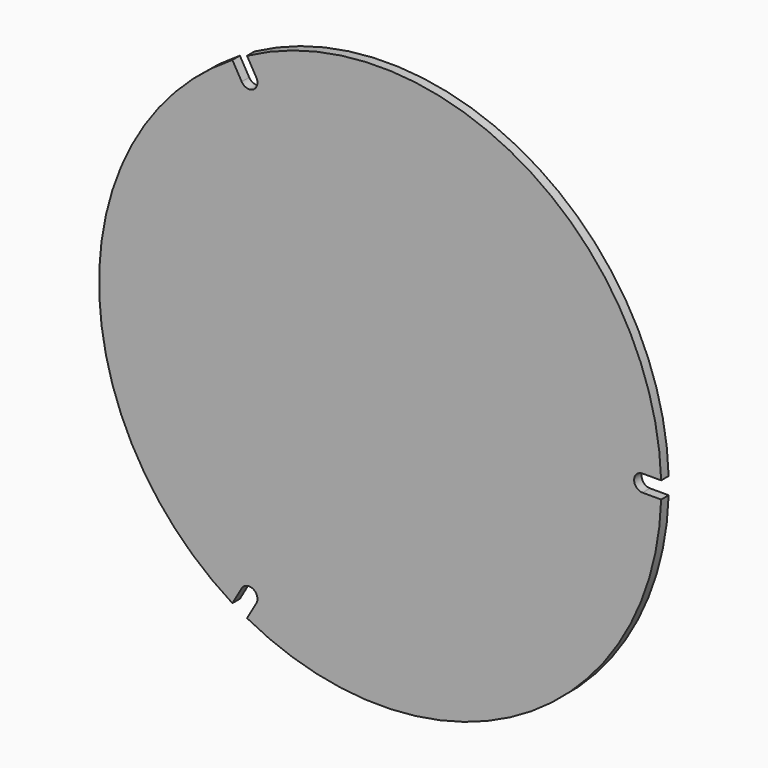
from build123d import *

# Parameters (mm, degrees)
F1_DEPTH = 10


with BuildPart() as f1:
    # F0 (on Front) → F1 (new body)
    with BuildSketch(Plane.XZ):
        with BuildLine():
            Line((280, 9), (299.86497, 9))
            ThreePointArc((299.86497, 9), (150, 259.807621), (-142.138256, 264.190681))
            Line((-142.138256, 264.190681), (-132.205771, 246.987113))
            ThreePointArc((-132.205771, 246.987113), (-131.306668, 244.816484), (-131, 242.487113))
            ThreePointArc((-131, 242.487113), (-137.670629, 233.793781), (-147.794229, 237.987113))
            Line((-147.794229, 237.987113), (-157.726713, 255.190681))
            ThreePointArc((-157.726713, 255.190681), (-300, 0), (-157.726713, -255.190681))
            Line((-157.726713, -255.190681), (-147.794229, -237.987113))
            ThreePointArc((-147.794229, -237.987113), (-137.670629, -233.793781), (-131, -242.487113))
            ThreePointArc((-131, -242.487113), (-131.306668, -244.816484), (-132.205771, -246.987113))
            Line((-132.205771, -246.987113), (-142.138256, -264.190681))
            ThreePointArc((-142.138256, -264.190681), (150, -259.807621), (299.86497, -9))
            Line((299.86497, -9), (280, -9))
            ThreePointArc((280, -9), (271, 0), (280, 9))
        make_face()
    extrude(amount=F1_DEPTH)


solid = f1.part
